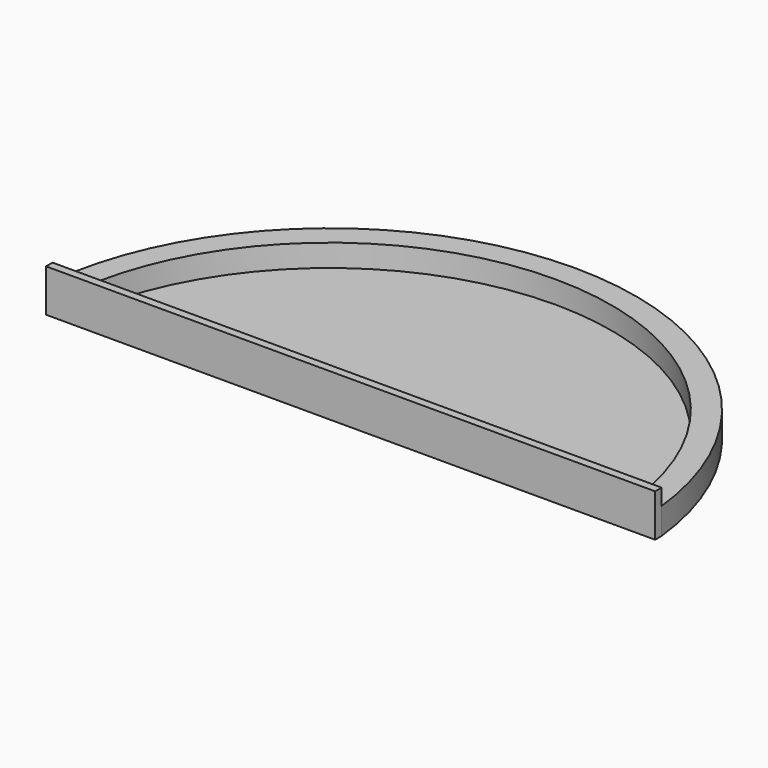
from build123d import *

# Parameters (mm, degrees)
F1_DEPTH = 3.25
F2_DEPTH = 0.5
F3_DEPTH = 5.25


with BuildPart() as f1:
    # F0 (on Top) → F1 (new body)
    with BuildSketch(Plane.XY):
        with BuildLine():
            ThreePointArc((-34.479228, 0), (0, 30.5), (34.479228, 0))
            Line((34.479228, 0), (37.5, 0))
            ThreePointArc((37.5, 0), (0, 33.5), (-37.5, 0))
            Line((-37.5, 0), (-34.479228, 0))
        make_face()
    extrude(amount=F1_DEPTH)

    # F0 (on Top) → F2 (join)
    with BuildSketch(Plane.XY):
        with BuildLine():
            Line((-34.479228, 0), (0, 0))
            Line((0, 0), (34.479228, 0))
            ThreePointArc((34.479228, 0), (0, 30.5), (-34.479228, 0))
        make_face()
    extrude(amount=F2_DEPTH)

    # F0 (on Top) → F3 (join)
    with BuildSketch(Plane.XY):
        Polygon((34.479228, 0), (0, 0), (-34.479228, 0), (-37.5, 0), (-37.5, -1), (37.5, -1), (37.5, 0), align=None)
    extrude(amount=F3_DEPTH)


solid = f1.part
